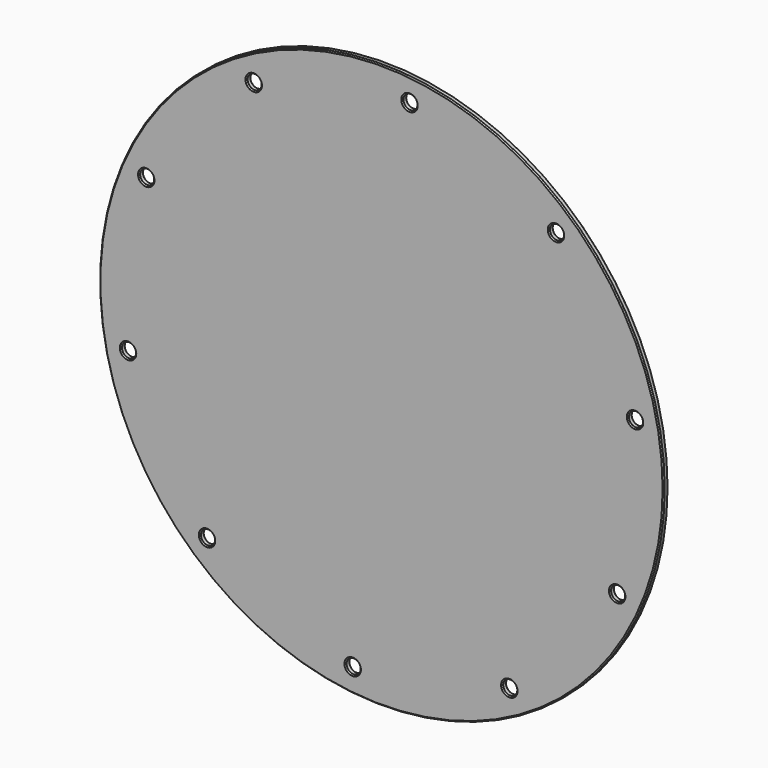
from build123d import *

# Parameters (mm, degrees)
F0_R     = 240
F0_R_2   = 6
F1_DEPTH = 5
F2_SIZE  = 1
F3_SIZE  = 1


with BuildPart() as f1:
    # F0 (on Front) → F1 (new body)
    with BuildSketch(Plane.XZ):
        with Locations((9.9e-05, -1.9e-05)):
            Circle(F0_R)
        with Locations((-148.349302, -162.457568)):
            Circle(F0_R_2, mode=Mode.SUBTRACT)
        with Locations((-24.526936, -218.628527)):
            Circle(F0_R_2, mode=Mode.SUBTRACT)
        with Locations((-215.507239, -44.233347)):
            Circle(F0_R_2, mode=Mode.SUBTRACT)
        with Locations((108.663924, -191.290827)):
            Circle(F0_R_2, mode=Mode.SUBTRACT)
        with Locations((200.348896, -90.88654)):
            Circle(F0_R_2, mode=Mode.SUBTRACT)
        with Locations((-200.030377, 90.541344)):
            Circle(F0_R_2, mode=Mode.SUBTRACT)
        with Locations((-108.663725, 191.290789)):
            Circle(F0_R_2, mode=Mode.SUBTRACT)
        with Locations((215.507437, 44.233309)):
            Circle(F0_R_2, mode=Mode.SUBTRACT)
        with Locations((23.815236, 219.336878)):
            Circle(F0_R_2, mode=Mode.SUBTRACT)
        with Locations((148.3495, 162.45753)):
            Circle(F0_R_2, mode=Mode.SUBTRACT)
    extrude(amount=F1_DEPTH)

    # F2
    f2_edges = [f1.edges().sort_by_distance(p)[0] for p in [
        (-239.999901, -5, -1.9e-05),
        (-154.349302, -5, -162.457568),
        (-30.526936, -5, -218.628527),
        (-221.507239, -5, -44.233347),
        (102.663924, -5, -191.290827),
        (194.348896, -5, -90.88654),
        (-206.030377, -5, 90.541344),
        (-114.663725, -5, 191.290789),
        (209.507437, -5, 44.233309),
        (17.815236, -5, 219.336878),
        (142.3495, -5, 162.45753),
    ]]
    chamfer(f2_edges, length=F2_SIZE)

    # F3
    f3_edges = [f1.edges().sort_by_distance(p)[0] for p in [
        (-239.999901, 0, -1.9e-05),
        (-154.349302, 0, -162.457568),
        (-30.526936, 0, -218.628527),
        (-221.507239, 0, -44.233347),
        (102.663924, 0, -191.290827),
        (194.348896, 0, -90.88654),
        (-206.030377, 0, 90.541344),
        (-114.663725, 0, 191.290789),
        (209.507437, 0, 44.233309),
        (17.815236, 0, 219.336878),
        (142.3495, 0, 162.45753),
    ]]
    chamfer(f3_edges, length=F3_SIZE)


solid = f1.part
